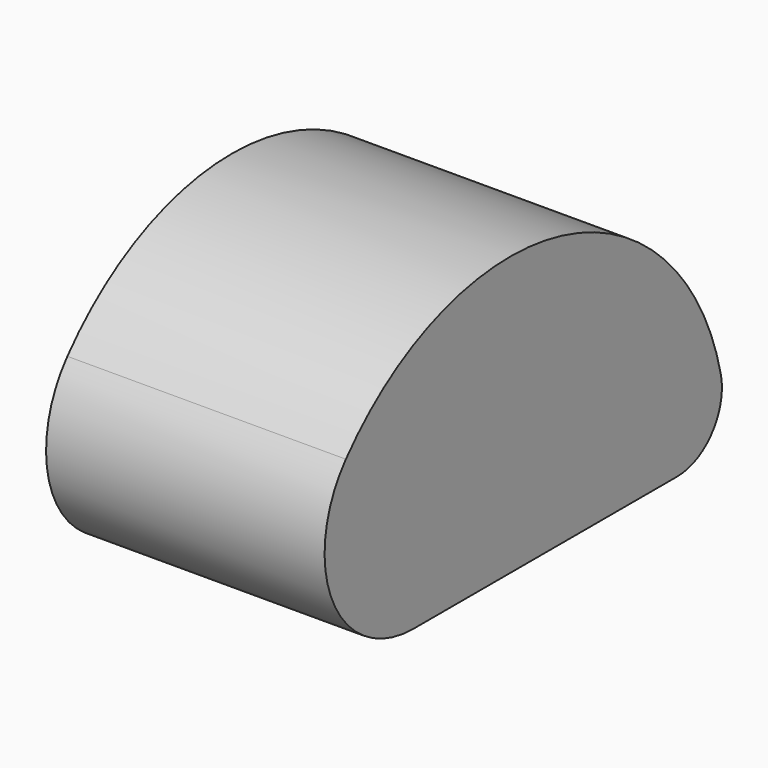
from build123d import *

# Parameters (mm, degrees)
F1_DEPTH = 50


with BuildPart() as f1:
    # F0 (on Right) → F1 (new body)
    with BuildSketch(Plane.YZ):
        with BuildLine():
            ThreePointArc((-69.168241, 50.615727), (-72.100491, 29.261612), (-53.943117, 17.646703))
            Line((-53.943117, 17.646703), (5.217681, 17.646703))
            ThreePointArc((5.217681, 17.646703), (13.026893, 21.400407), (14.973411, 29.84346))
            ThreePointArc((14.973411, 29.84346), (-20.677481, 66.234646), (-69.168241, 50.615727))
        make_face()
    extrude(amount=-F1_DEPTH)


solid = f1.part
